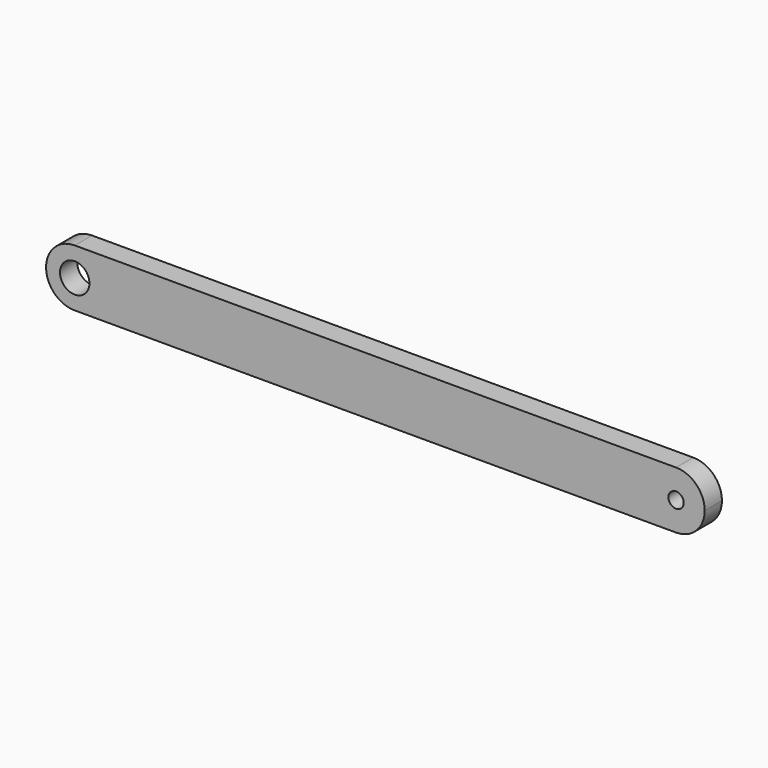
from build123d import *

# Parameters (mm, degrees)
F0_R     = 1.63195
F0_R_2   = 0.8509
F1_DEPTH = 2.3876


with BuildPart() as f1:
    # F0 (on Front) → F1 (new body)
    with BuildSketch(Plane.XZ):
        with BuildLine():
            ThreePointArc((75.886587, 0), (74.956651, 2.245064), (72.711587, 3.175))
            Line((72.711587, 3.175), (6.036587, 3.175))
            ThreePointArc((6.036587, 3.175), (3.791523, 2.245064), (2.861587, 0))
            ThreePointArc((2.861587, 0), (3.791523, -2.245064), (6.036587, -3.175))
            Line((6.036587, -3.175), (72.711587, -3.175))
            ThreePointArc((72.711587, -3.175), (74.956651, -2.245064), (75.886587, 0))
        make_face()
        with Locations((6.036587, 0)):
            Circle(F0_R, mode=Mode.SUBTRACT)
        with Locations((72.711587, 0)):
            Circle(F0_R_2, mode=Mode.SUBTRACT)
    extrude(amount=-F1_DEPTH)


solid = f1.part
